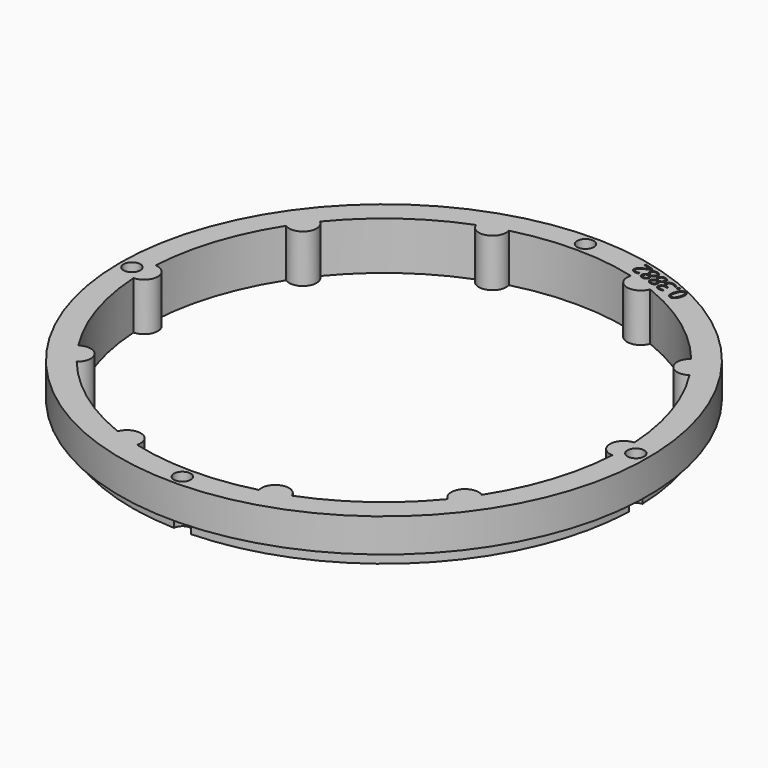
from build123d import *

# Parameters (mm, degrees)
SKETCH134_R             = 55
PAD050_DEPTH            = 10
POLARPATTERN015_COUNT   = 10
SKETCH135_R             = 55
SKETCH135_R_2           = 52.5
POCKET072_DEPTH         = 3
SKETCH136_R             = 1.75
POCKET073_DEPTH         = 321.770146
POCKET073_DEPTH_BACK    = 311.770146
POLARPATTERN016_COUNT   = 4
POCKET080_DEPTH         = 2
BODY008_ROLL_ANGLE      = 90
BODY008_PLACEMENT_ANGLE = -180


with BuildPart() as part:
    # Sketch134 → Pad050 (new body)
    with BuildSketch(Plane.XZ):
        Circle(SKETCH134_R)
        with BuildLine():
            ThreePointArc((49.915729, 2.901727), (-49.999981, -0.043968), (49.920755, -2.813934))
            ThreePointArc((49.915729, 2.901727), (47.140982, 0.041454), (49.920755, -2.813934))
        make_face(mode=Mode.SUBTRACT)
    pad050 = extrude(amount=PAD050_DEPTH)

    # PolarPattern015: Pad050 ×10 about axis
    polarpattern015_axis = Axis((0, 0, 0), (0, -1, 0))
    for i in range(1, POLARPATTERN015_COUNT):
        add(pad050.rotate(polarpattern015_axis, i * 360 / POLARPATTERN015_COUNT))

    # Sketch135 (on DatumPlane) → Pocket072 (cut)
    with BuildSketch(Plane.XZ.offset(10)):
        Circle(SKETCH135_R)
        Circle(SKETCH135_R_2, mode=Mode.SUBTRACT)
    extrude(amount=-POCKET072_DEPTH, mode=Mode.SUBTRACT)

    # Sketch136 (on DatumPlane) → Pocket073 (cut, two sides)
    with BuildSketch(Plane.XZ.offset(10)) as pocket073_sk:
        with Locations((52.5, 0)):
            Circle(SKETCH136_R)
    pocket073 = extrude(amount=-POCKET073_DEPTH, mode=Mode.SUBTRACT) + extrude(pocket073_sk.sketch, amount=POCKET073_DEPTH_BACK, mode=Mode.SUBTRACT)

    # PolarPattern016: Pocket073 ×4 about axis
    polarpattern016_axis = Axis((0, -10, 0), (0, -1, 0))
    for i in range(1, POLARPATTERN016_COUNT):
        add(pocket073.rotate(polarpattern016_axis, i * 360 / POLARPATTERN016_COUNT), mode=Mode.SUBTRACT)

    # Sketch149 (on Face2 of PolarPattern016) → Pocket080 (cut)
    with BuildSketch(Plane(origin=(0, 0, 0), x_dir=(1, 0, 0), z_dir=(0, 1, 0))):
        with BuildLine():
            add(Edge.make_bspline(
                [(-21.9569, -48.2452), (-22.0699, -48.593), (-22.2115, -48.8495)],
                knots=[0, 0, 0, 1, 1, 1], degree=2))
            add(Edge.make_bspline(
                [(-22.2115, -48.8495), (-22.3529, -49.1058), (-22.5276, -49.2587)],
                knots=[0, 0, 0, 1, 1, 1], degree=2))
            add(Edge.make_bspline(
                [(-22.5276, -49.2587), (-22.7023, -49.4115), (-22.9137, -49.4519)],
                knots=[0, 0, 0, 1, 1, 1], degree=2))
            add(Edge.make_bspline(
                [(-22.9137, -49.4519), (-23.1251, -49.4922), (-23.3766, -49.4105)],
                knots=[0, 0, 0, 1, 1, 1], degree=2))
            add(Edge.make_bspline(
                [(-23.3766, -49.4105), (-23.6944, -49.3073), (-23.8456, -49.0659)],
                knots=[0, 0, 0, 1, 1, 1], degree=2))
            add(Edge.make_bspline(
                [(-23.8456, -49.0659), (-23.9967, -48.8245), (-23.9921, -48.462)],
                knots=[0, 0, 0, 1, 1, 1], degree=2))
            add(Edge.make_bspline(
                [(-23.9921, -48.462), (-23.9874, -48.0996), (-23.8363, -47.6345)],
                knots=[0, 0, 0, 1, 1, 1], degree=2))
            add(Edge.make_bspline(
                [(-23.8363, -47.6345), (-23.6878, -47.1774), (-23.4883, -46.8782)],
                knots=[0, 0, 0, 1, 1, 1], degree=2))
            add(Edge.make_bspline(
                [(-23.4883, -46.8782), (-23.2886, -46.5791), (-23.0246, -46.4695)],
                knots=[0, 0, 0, 1, 1, 1], degree=2))
            add(Edge.make_bspline(
                [(-23.0246, -46.4695), (-22.7604, -46.3598), (-22.4212, -46.47)],
                knots=[0, 0, 0, 1, 1, 1], degree=2))
            add(Edge.make_bspline(
                [(-22.4212, -46.47), (-22.0995, -46.5745), (-21.9477, -46.8172)],
                knots=[0, 0, 0, 1, 1, 1], degree=2))
            add(Edge.make_bspline(
                [(-21.9477, -46.8172), (-21.7959, -47.0598), (-21.8015, -47.422)],
                knots=[0, 0, 0, 1, 1, 1], degree=2))
            add(Edge.make_bspline(
                [(-21.8015, -47.422), (-21.8071, -47.7842), (-21.9569, -48.2452)],
                knots=[0, 0, 0, 1, 1, 1], degree=2))
        make_face()
        with BuildLine():
            add(Edge.make_bspline(
                [(-23.5107, -47.7403), (-23.6403, -48.1392), (-23.6663, -48.4248)],
                knots=[0, 0, 0, 1, 1, 1], degree=2))
            add(Edge.make_bspline(
                [(-23.6663, -48.4248), (-23.6922, -48.7102), (-23.5997, -48.8861)],
                knots=[0, 0, 0, 1, 1, 1], degree=2))
            add(Edge.make_bspline(
                [(-23.5997, -48.8861), (-23.507, -49.0621), (-23.2867, -49.1337)],
                knots=[0, 0, 0, 1, 1, 1], degree=2))
            add(Edge.make_bspline(
                [(-23.2867, -49.1337), (-23.0664, -49.2052), (-22.8884, -49.1184)],
                knots=[0, 0, 0, 1, 1, 1], degree=2))
            add(Edge.make_bspline(
                [(-22.8884, -49.1184), (-22.7103, -49.0314), (-22.5626, -48.7855)],
                knots=[0, 0, 0, 1, 1, 1], degree=2))
            add(Edge.make_bspline(
                [(-22.5626, -48.7855), (-22.4147, -48.5396), (-22.2844, -48.1388)],
                knots=[0, 0, 0, 1, 1, 1], degree=2))
            add(Edge.make_bspline(
                [(-22.2844, -48.1388), (-22.1568, -47.7458), (-22.1312, -47.4615)],
                knots=[0, 0, 0, 1, 1, 1], degree=2))
            add(Edge.make_bspline(
                [(-22.1312, -47.4615), (-22.1056, -47.1769), (-22.1966, -46.9993)],
                knots=[0, 0, 0, 1, 1, 1], degree=2))
            add(Edge.make_bspline(
                [(-22.1966, -46.9993), (-22.2876, -46.8216), (-22.5118, -46.7488)],
                knots=[0, 0, 0, 1, 1, 1], degree=2))
            add(Edge.make_bspline(
                [(-22.5118, -46.7488), (-22.736, -46.6759), (-22.914, -46.7662)],
                knots=[0, 0, 0, 1, 1, 1], degree=2))
            add(Edge.make_bspline(
                [(-22.914, -46.7662), (-23.0921, -46.8564), (-23.2377, -47.1019)],
                knots=[0, 0, 0, 1, 1, 1], degree=2))
            add(Edge.make_bspline(
                [(-23.2377, -47.1019), (-23.3831, -47.3474), (-23.5107, -47.7403)],
                knots=[0, 0, 0, 1, 1, 1], degree=2))
        make_face(mode=Mode.SUBTRACT)
        with BuildLine():
            add(Edge.make_bspline(
                [(-21.8586, -49.6146), (-21.8142, -49.4782), (-21.7293, -49.4423)],
                knots=[0, 0, 0, 1, 1, 1], degree=2))
            add(Edge.make_bspline(
                [(-21.7293, -49.4423), (-21.6443, -49.4062), (-21.5487, -49.4373)],
                knots=[0, 0, 0, 1, 1, 1], degree=2))
            add(Edge.make_bspline(
                [(-21.5487, -49.4373), (-21.4493, -49.4696), (-21.3998, -49.5493)],
                knots=[0, 0, 0, 1, 1, 1], degree=2))
            add(Edge.make_bspline(
                [(-21.3998, -49.5493), (-21.3502, -49.6289), (-21.3946, -49.7654)],
                knots=[0, 0, 0, 1, 1, 1], degree=2))
            add(Edge.make_bspline(
                [(-21.3946, -49.7654), (-21.4383, -49.8999), (-21.5265, -49.9392)],
                knots=[0, 0, 0, 1, 1, 1], degree=2))
            add(Edge.make_bspline(
                [(-21.5265, -49.9392), (-21.6147, -49.9784), (-21.7141, -49.9461)],
                knots=[0, 0, 0, 1, 1, 1], degree=2))
            add(Edge.make_bspline(
                [(-21.7141, -49.9461), (-21.8096, -49.9151), (-21.856, -49.8322)],
                knots=[0, 0, 0, 1, 1, 1], degree=2))
            add(Edge.make_bspline(
                [(-21.856, -49.8322), (-21.9023, -49.7492), (-21.8586, -49.6146)],
                knots=[0, 0, 0, 1, 1, 1], degree=2))
        make_face()
        with BuildLine():
            add(Edge.make_bspline(
                [(-18.5038, -48.5277), (-18.5662, -48.7199), (-18.6862, -48.837)],
                knots=[0, 0, 0, 1, 1, 1], degree=2))
            add(Edge.make_bspline(
                [(-18.6862, -48.837), (-18.8061, -48.9541), (-18.9677, -49.0003)],
                knots=[0, 0, 0, 1, 1, 1], degree=2))
            add(Edge.make_bspline(
                [(-18.9677, -49.0003), (-19.1292, -49.0464), (-19.320094, -49.02347)],
                knots=[0, 0, 0, 1, 1, 1], degree=2))
            Line((-19.320094, -49.02347), (-19.3252, -49.0391))
            add(Edge.make_bspline(
                [(-19.3252, -49.0391), (-18.9999, -49.1922), (-18.8864, -49.4233)],
                knots=[0, 0, 0, 1, 1, 1], degree=2))
            add(Edge.make_bspline(
                [(-18.8864, -49.4233), (-18.7729, -49.6545), (-18.8655, -49.9395)],
                knots=[0, 0, 0, 1, 1, 1], degree=2))
            add(Edge.make_bspline(
                [(-18.8655, -49.9395), (-18.9461, -50.1875), (-19.1243, -50.3411)],
                knots=[0, 0, 0, 1, 1, 1], degree=2))
            add(Edge.make_bspline(
                [(-19.1243, -50.3411), (-19.3024, -50.4948), (-19.5765, -50.5255)],
                knots=[0, 0, 0, 1, 1, 1], degree=2))
            add(Edge.make_bspline(
                [(-19.5765, -50.5255), (-19.8504, -50.5562), (-20.2228, -50.4352)],
                knots=[0, 0, 0, 1, 1, 1], degree=2))
            add(Edge.make_bspline(
                [(-20.2228, -50.4352), (-20.449, -50.3618), (-20.6293, -50.2632)],
                knots=[0, 0, 0, 1, 1, 1], degree=2))
            add(Edge.make_bspline(
                [(-20.6293, -50.2632), (-20.8096, -50.1648), (-20.957832, -50.023984)],
                knots=[0, 0, 0, 1, 1, 1], degree=2))
            Line((-20.957832, -50.023984), (-20.859, -49.7198))
            add(Edge.make_bspline(
                [(-20.859, -49.7198), (-20.7101, -49.8652), (-20.5177, -49.9828)],
                knots=[0, 0, 0, 1, 1, 1], degree=2))
            add(Edge.make_bspline(
                [(-20.5177, -49.9828), (-20.3252, -50.1002), (-20.1302, -50.1636)],
                knots=[0, 0, 0, 1, 1, 1], degree=2))
            add(Edge.make_bspline(
                [(-20.1302, -50.1636), (-19.7403, -50.2903), (-19.5163, -50.1913)],
                knots=[0, 0, 0, 1, 1, 1], degree=2))
            add(Edge.make_bspline(
                [(-19.5163, -50.1913), (-19.2924, -50.0924), (-19.2048, -49.8229)],
                knots=[0, 0, 0, 1, 1, 1], degree=2))
            add(Edge.make_bspline(
                [(-19.2048, -49.8229), (-19.1445, -49.6373), (-19.204, -49.4917)],
                knots=[0, 0, 0, 1, 1, 1], degree=2))
            add(Edge.make_bspline(
                [(-19.204, -49.4917), (-19.2633, -49.3461), (-19.4262, -49.2338)],
                knots=[0, 0, 0, 1, 1, 1], degree=2))
            add(Edge.make_bspline(
                [(-19.4262, -49.2338), (-19.589, -49.1215), (-19.842475, -49.039104)],
                knots=[0, 0, 0, 1, 1, 1], degree=2))
            Line((-19.842475, -49.039104), (-20.127116, -48.946618))
            Line((-20.127116, -48.946618), (-20.037165, -48.669776))
            Line((-20.037165, -48.669776), (-19.7506, -48.7629))
            add(Edge.make_bspline(
                [(-19.7506, -48.7629), (-19.5186, -48.8383), (-19.3344, -48.8221)],
                knots=[0, 0, 0, 1, 1, 1], degree=2))
            add(Edge.make_bspline(
                [(-19.3344, -48.8221), (-19.1502, -48.8058), (-19.0249, -48.7086)],
                knots=[0, 0, 0, 1, 1, 1], degree=2))
            add(Edge.make_bspline(
                [(-19.0249, -48.7086), (-18.8995, -48.6114), (-18.8439, -48.4403)],
                knots=[0, 0, 0, 1, 1, 1], degree=2))
            add(Edge.make_bspline(
                [(-18.8439, -48.4403), (-18.7731, -48.2222), (-18.8787, -48.0564)],
                knots=[0, 0, 0, 1, 1, 1], degree=2))
            add(Edge.make_bspline(
                [(-18.8787, -48.0564), (-18.9843, -47.8906), (-19.2319, -47.8102)],
                knots=[0, 0, 0, 1, 1, 1], degree=2))
            add(Edge.make_bspline(
                [(-19.2319, -47.8102), (-19.384, -47.7608), (-19.5189, -47.7514)],
                knots=[0, 0, 0, 1, 1, 1], degree=2))
            add(Edge.make_bspline(
                [(-19.5189, -47.7514), (-19.6538, -47.7421), (-19.7807, -47.7612)],
                knots=[0, 0, 0, 1, 1, 1], degree=2))
            add(Edge.make_bspline(
                [(-19.7807, -47.7612), (-19.9077, -47.7803), (-20.040268, -47.816945)],
                knots=[0, 0, 0, 1, 1, 1], degree=2))
            Line((-20.040268, -47.816945), (-20.1318, -47.5415))
            add(Edge.make_bspline(
                [(-20.1318, -47.5415), (-19.9366, -47.4713), (-19.6839, -47.4564)],
                knots=[0, 0, 0, 1, 1, 1], degree=2))
            add(Edge.make_bspline(
                [(-19.6839, -47.4564), (-19.4312, -47.4415), (-19.1465, -47.534)],
                knots=[0, 0, 0, 1, 1, 1], degree=2))
            add(Edge.make_bspline(
                [(-19.1465, -47.534), (-18.7098, -47.6759), (-18.5564, -47.9469)],
                knots=[0, 0, 0, 1, 1, 1], degree=2))
            add(Edge.make_bspline(
                [(-18.5564, -47.9469), (-18.4031, -48.2178), (-18.5038, -48.5277)],
                knots=[0, 0, 0, 1, 1, 1], degree=2))
        make_face()
        with BuildLine():
            add(Edge.make_bspline(
                [(-16.8147, -48.2917), (-16.5671, -48.3721), (-16.4014, -48.5124)],
                knots=[0, 0, 0, 1, 1, 1], degree=2))
            add(Edge.make_bspline(
                [(-16.4014, -48.5124), (-16.2358, -48.6528), (-16.1769, -48.8396)],
                knots=[0, 0, 0, 1, 1, 1], degree=2))
            add(Edge.make_bspline(
                [(-16.1769, -48.8396), (-16.1179, -49.0263), (-16.1897, -49.2474)],
                knots=[0, 0, 0, 1, 1, 1], degree=2))
            add(Edge.make_bspline(
                [(-16.1897, -49.2474), (-16.2463, -49.4215), (-16.3637, -49.5272)],
                knots=[0, 0, 0, 1, 1, 1], degree=2))
            add(Edge.make_bspline(
                [(-16.3637, -49.5272), (-16.481, -49.633), (-16.6392, -49.6886)],
                knots=[0, 0, 0, 1, 1, 1], degree=2))
            add(Edge.make_bspline(
                [(-16.6392, -49.6886), (-16.7974, -49.7443), (-16.9762, -49.7705)],
                knots=[0, 0, 0, 1, 1, 1], degree=2))
            add(Edge.make_bspline(
                [(-16.9762, -49.7705), (-16.8202, -49.9142), (-16.7074, -50.0677)],
                knots=[0, 0, 0, 1, 1, 1], degree=2))
            add(Edge.make_bspline(
                [(-16.7074, -50.0677), (-16.5945, -50.2212), (-16.5552, -50.3919)],
                knots=[0, 0, 0, 1, 1, 1], degree=2))
            add(Edge.make_bspline(
                [(-16.5552, -50.3919), (-16.5158, -50.5626), (-16.5793, -50.7582)],
                knots=[0, 0, 0, 1, 1, 1], degree=2))
            add(Edge.make_bspline(
                [(-16.5793, -50.7582), (-16.6575, -50.9988), (-16.8305, -51.1363)],
                knots=[0, 0, 0, 1, 1, 1], degree=2))
            add(Edge.make_bspline(
                [(-16.8305, -51.1363), (-17.0033, -51.2737), (-17.2425, -51.2999)],
                knots=[0, 0, 0, 1, 1, 1], degree=2))
            add(Edge.make_bspline(
                [(-17.2425, -51.2999), (-17.4816, -51.3259), (-17.7623, -51.2347)],
                knots=[0, 0, 0, 1, 1, 1], degree=2))
            add(Edge.make_bspline(
                [(-17.7623, -51.2347), (-18.0645, -51.1365), (-18.2465, -50.9768)],
                knots=[0, 0, 0, 1, 1, 1], degree=2))
            add(Edge.make_bspline(
                [(-18.2465, -50.9768), (-18.4284, -50.8171), (-18.483, -50.6101)],
                knots=[0, 0, 0, 1, 1, 1], degree=2))
            add(Edge.make_bspline(
                [(-18.483, -50.6101), (-18.5375, -50.4032), (-18.4593, -50.1626)],
                knots=[0, 0, 0, 1, 1, 1], degree=2))
            add(Edge.make_bspline(
                [(-18.4593, -50.1626), (-18.3951, -49.9649), (-18.2639, -49.8464)],
                knots=[0, 0, 0, 1, 1, 1], degree=2))
            add(Edge.make_bspline(
                [(-18.2639, -49.8464), (-18.1327, -49.728), (-17.96, -49.6673)],
                knots=[0, 0, 0, 1, 1, 1], degree=2))
            add(Edge.make_bspline(
                [(-17.96, -49.6673), (-17.7872, -49.6066), (-17.5999, -49.5874)],
                knots=[0, 0, 0, 1, 1, 1], degree=2))
            add(Edge.make_bspline(
                [(-17.5999, -49.5874), (-17.7168, -49.4629), (-17.8024, -49.3248)],
                knots=[0, 0, 0, 1, 1, 1], degree=2))
            add(Edge.make_bspline(
                [(-17.8024, -49.3248), (-17.8879, -49.1866), (-17.9136, -49.0301)],
                knots=[0, 0, 0, 1, 1, 1], degree=2))
            add(Edge.make_bspline(
                [(-17.9136, -49.0301), (-17.9392, -48.8737), (-17.8814, -48.6956)],
                knots=[0, 0, 0, 1, 1, 1], degree=2))
            add(Edge.make_bspline(
                [(-17.8814, -48.6956), (-17.8108, -48.4785), (-17.6515, -48.3626)],
                knots=[0, 0, 0, 1, 1, 1], degree=2))
            add(Edge.make_bspline(
                [(-17.6515, -48.3626), (-17.492, -48.2468), (-17.2743, -48.23)],
                knots=[0, 0, 0, 1, 1, 1], degree=2))
            add(Edge.make_bspline(
                [(-17.2743, -48.23), (-17.0564, -48.2131), (-16.8147, -48.2917)],
                knots=[0, 0, 0, 1, 1, 1], degree=2))
        make_face()
        with BuildLine():
            add(Edge.make_bspline(
                [(-18.1423, -50.2682), (-18.2136, -50.4876), (-18.1057, -50.6796)],
                knots=[0, 0, 0, 1, 1, 1], degree=2))
            add(Edge.make_bspline(
                [(-18.1057, -50.6796), (-17.9978, -50.8715), (-17.6858, -50.9729)],
                knots=[0, 0, 0, 1, 1, 1], degree=2))
            add(Edge.make_bspline(
                [(-17.6858, -50.9729), (-17.3895, -51.0692), (-17.1816, -50.9798)],
                knots=[0, 0, 0, 1, 1, 1], degree=2))
            add(Edge.make_bspline(
                [(-17.1816, -50.9798), (-16.9736, -50.8905), (-16.8986, -50.6594)],
                knots=[0, 0, 0, 1, 1, 1], degree=2))
            add(Edge.make_bspline(
                [(-16.8986, -50.6594), (-16.8521, -50.5164), (-16.8909, -50.3837)],
                knots=[0, 0, 0, 1, 1, 1], degree=2))
            add(Edge.make_bspline(
                [(-16.8909, -50.3837), (-16.9297, -50.2509), (-17.0381, -50.1204)],
                knots=[0, 0, 0, 1, 1, 1], degree=2))
            add(Edge.make_bspline(
                [(-17.0381, -50.1204), (-17.1466, -49.9899), (-17.308932, -49.859284)],
                knots=[0, 0, 0, 1, 1, 1], degree=2))
            Line((-17.308932, -49.859284), (-17.3708, -49.811))
            add(Edge.make_bspline(
                [(-17.3708, -49.811), (-17.5744, -49.8271), (-17.7298, -49.8773)],
                knots=[0, 0, 0, 1, 1, 1], degree=2))
            add(Edge.make_bspline(
                [(-17.7298, -49.8773), (-17.8851, -49.9276), (-17.9889, -50.0216)],
                knots=[0, 0, 0, 1, 1, 1], degree=2))
            add(Edge.make_bspline(
                [(-17.9889, -50.0216), (-18.0927, -50.1155), (-18.1423, -50.2682)],
                knots=[0, 0, 0, 1, 1, 1], degree=2))
        make_face(mode=Mode.SUBTRACT)
        with BuildLine():
            add(Edge.make_bspline(
                [(-16.9047, -48.5555), (-17.1348, -48.4808), (-17.317, -48.544)],
                knots=[0, 0, 0, 1, 1, 1], degree=2))
            add(Edge.make_bspline(
                [(-17.317, -48.544), (-17.4991, -48.6071), (-17.5666, -48.8147)],
                knots=[0, 0, 0, 1, 1, 1], degree=2))
            add(Edge.make_bspline(
                [(-17.5666, -48.8147), (-17.6149, -48.9635), (-17.5772, -49.0894)],
                knots=[0, 0, 0, 1, 1, 1], degree=2))
            add(Edge.make_bspline(
                [(-17.5772, -49.0894), (-17.5394, -49.2154), (-17.4405, -49.3287)],
                knots=[0, 0, 0, 1, 1, 1], degree=2))
            add(Edge.make_bspline(
                [(-17.4405, -49.3287), (-17.3415, -49.4421), (-17.2098, -49.5541)],
                knots=[0, 0, 0, 1, 1, 1], degree=2))
            add(Edge.make_bspline(
                [(-17.2098, -49.5541), (-17.0412, -49.5396), (-16.9017, -49.5016)],
                knots=[0, 0, 0, 1, 1, 1], degree=2))
            add(Edge.make_bspline(
                [(-16.9017, -49.5016), (-16.7622, -49.4636), (-16.6622, -49.3814)],
                knots=[0, 0, 0, 1, 1, 1], degree=2))
            add(Edge.make_bspline(
                [(-16.6622, -49.3814), (-16.5622, -49.2991), (-16.5151, -49.1542)],
                knots=[0, 0, 0, 1, 1, 1], degree=2))
            add(Edge.make_bspline(
                [(-16.5151, -49.1542), (-16.4477, -48.9466), (-16.5573, -48.7897)],
                knots=[0, 0, 0, 1, 1, 1], degree=2))
            add(Edge.make_bspline(
                [(-16.5573, -48.7897), (-16.6669, -48.6328), (-16.9047, -48.5555)],
                knots=[0, 0, 0, 1, 1, 1], degree=2))
        make_face(mode=Mode.SUBTRACT)
        with BuildLine():
            add(Edge.make_bspline(
                [(-14.5355, -49.0322), (-14.2879, -49.1127), (-14.1222, -49.253)],
                knots=[0, 0, 0, 1, 1, 1], degree=2))
            add(Edge.make_bspline(
                [(-14.1222, -49.253), (-13.9566, -49.3933), (-13.8977, -49.5801)],
                knots=[0, 0, 0, 1, 1, 1], degree=2))
            add(Edge.make_bspline(
                [(-13.8977, -49.5801), (-13.8387, -49.7669), (-13.9105, -49.9879)],
                knots=[0, 0, 0, 1, 1, 1], degree=2))
            add(Edge.make_bspline(
                [(-13.9105, -49.9879), (-13.9671, -50.1621), (-14.0845, -50.2678)],
                knots=[0, 0, 0, 1, 1, 1], degree=2))
            add(Edge.make_bspline(
                [(-14.0845, -50.2678), (-14.2018, -50.3735), (-14.36, -50.4292)],
                knots=[0, 0, 0, 1, 1, 1], degree=2))
            add(Edge.make_bspline(
                [(-14.36, -50.4292), (-14.5182, -50.4848), (-14.697, -50.5111)],
                knots=[0, 0, 0, 1, 1, 1], degree=2))
            add(Edge.make_bspline(
                [(-14.697, -50.5111), (-14.541, -50.6547), (-14.4282, -50.8082)],
                knots=[0, 0, 0, 1, 1, 1], degree=2))
            add(Edge.make_bspline(
                [(-14.4282, -50.8082), (-14.3153, -50.9617), (-14.2759, -51.1324)],
                knots=[0, 0, 0, 1, 1, 1], degree=2))
            add(Edge.make_bspline(
                [(-14.2759, -51.1324), (-14.2366, -51.3032), (-14.3001, -51.4988)],
                knots=[0, 0, 0, 1, 1, 1], degree=2))
            add(Edge.make_bspline(
                [(-14.3001, -51.4988), (-14.3783, -51.7393), (-14.5513, -51.8768)],
                knots=[0, 0, 0, 1, 1, 1], degree=2))
            add(Edge.make_bspline(
                [(-14.5513, -51.8768), (-14.7241, -52.0142), (-14.9633, -52.0404)],
                knots=[0, 0, 0, 1, 1, 1], degree=2))
            add(Edge.make_bspline(
                [(-14.9633, -52.0404), (-15.2024, -52.0665), (-15.4831, -51.9753)],
                knots=[0, 0, 0, 1, 1, 1], degree=2))
            add(Edge.make_bspline(
                [(-15.4831, -51.9753), (-15.7853, -51.8771), (-15.9673, -51.7173)],
                knots=[0, 0, 0, 1, 1, 1], degree=2))
            add(Edge.make_bspline(
                [(-15.9673, -51.7173), (-16.1492, -51.5577), (-16.2038, -51.3507)],
                knots=[0, 0, 0, 1, 1, 1], degree=2))
            add(Edge.make_bspline(
                [(-16.2038, -51.3507), (-16.2583, -51.1437), (-16.1801, -50.9031)],
                knots=[0, 0, 0, 1, 1, 1], degree=2))
            add(Edge.make_bspline(
                [(-16.1801, -50.9031), (-16.1159, -50.7055), (-15.9847, -50.587)],
                knots=[0, 0, 0, 1, 1, 1], degree=2))
            add(Edge.make_bspline(
                [(-15.9847, -50.587), (-15.8535, -50.4685), (-15.6808, -50.4078)],
                knots=[0, 0, 0, 1, 1, 1], degree=2))
            add(Edge.make_bspline(
                [(-15.6808, -50.4078), (-15.508, -50.3472), (-15.3207, -50.328)],
                knots=[0, 0, 0, 1, 1, 1], degree=2))
            add(Edge.make_bspline(
                [(-15.3207, -50.328), (-15.4376, -50.2035), (-15.5232, -50.0653)],
                knots=[0, 0, 0, 1, 1, 1], degree=2))
            add(Edge.make_bspline(
                [(-15.5232, -50.0653), (-15.6087, -49.9272), (-15.6344, -49.7707)],
                knots=[0, 0, 0, 1, 1, 1], degree=2))
            add(Edge.make_bspline(
                [(-15.6344, -49.7707), (-15.66, -49.6142), (-15.6022, -49.4362)],
                knots=[0, 0, 0, 1, 1, 1], degree=2))
            add(Edge.make_bspline(
                [(-15.6022, -49.4362), (-15.5316, -49.2191), (-15.3723, -49.1032)],
                knots=[0, 0, 0, 1, 1, 1], degree=2))
            add(Edge.make_bspline(
                [(-15.3723, -49.1032), (-15.2128, -48.9873), (-14.9951, -48.9705)],
                knots=[0, 0, 0, 1, 1, 1], degree=2))
            add(Edge.make_bspline(
                [(-14.9951, -48.9705), (-14.7772, -48.9537), (-14.5355, -49.0322)],
                knots=[0, 0, 0, 1, 1, 1], degree=2))
        make_face()
        with BuildLine():
            add(Edge.make_bspline(
                [(-15.8631, -51.0087), (-15.9344, -51.2281), (-15.8265, -51.4201)],
                knots=[0, 0, 0, 1, 1, 1], degree=2))
            add(Edge.make_bspline(
                [(-15.8265, -51.4201), (-15.7186, -51.6121), (-15.4066, -51.7134)],
                knots=[0, 0, 0, 1, 1, 1], degree=2))
            add(Edge.make_bspline(
                [(-15.4066, -51.7134), (-15.1103, -51.8097), (-14.9024, -51.7204)],
                knots=[0, 0, 0, 1, 1, 1], degree=2))
            add(Edge.make_bspline(
                [(-14.9024, -51.7204), (-14.6944, -51.631), (-14.6194, -51.3999)],
                knots=[0, 0, 0, 1, 1, 1], degree=2))
            add(Edge.make_bspline(
                [(-14.6194, -51.3999), (-14.5729, -51.257), (-14.6117, -51.1242)],
                knots=[0, 0, 0, 1, 1, 1], degree=2))
            add(Edge.make_bspline(
                [(-14.6117, -51.1242), (-14.6505, -50.9915), (-14.7589, -50.861)],
                knots=[0, 0, 0, 1, 1, 1], degree=2))
            add(Edge.make_bspline(
                [(-14.7589, -50.861), (-14.8674, -50.7305), (-15.029724, -50.599844)],
                knots=[0, 0, 0, 1, 1, 1], degree=2))
            Line((-15.029724, -50.599844), (-15.0916, -50.5516))
            add(Edge.make_bspline(
                [(-15.0916, -50.5516), (-15.2952, -50.5676), (-15.4506, -50.6179)],
                knots=[0, 0, 0, 1, 1, 1], degree=2))
            add(Edge.make_bspline(
                [(-15.4506, -50.6179), (-15.6059, -50.6681), (-15.7097, -50.7621)],
                knots=[0, 0, 0, 1, 1, 1], degree=2))
            add(Edge.make_bspline(
                [(-15.7097, -50.7621), (-15.8135, -50.856), (-15.8631, -51.0087)],
                knots=[0, 0, 0, 1, 1, 1], degree=2))
        make_face(mode=Mode.SUBTRACT)
        with BuildLine():
            add(Edge.make_bspline(
                [(-14.6255, -49.2961), (-14.8556, -49.2214), (-15.0378, -49.2846)],
                knots=[0, 0, 0, 1, 1, 1], degree=2))
            add(Edge.make_bspline(
                [(-15.0378, -49.2846), (-15.2199, -49.3477), (-15.2874, -49.5552)],
                knots=[0, 0, 0, 1, 1, 1], degree=2))
            add(Edge.make_bspline(
                [(-15.2874, -49.5552), (-15.3357, -49.7041), (-15.298, -49.83)],
                knots=[0, 0, 0, 1, 1, 1], degree=2))
            add(Edge.make_bspline(
                [(-15.298, -49.83), (-15.2602, -49.9559), (-15.1612, -50.0693)],
                knots=[0, 0, 0, 1, 1, 1], degree=2))
            add(Edge.make_bspline(
                [(-15.1612, -50.0693), (-15.0623, -50.1826), (-14.9306, -50.2947)],
                knots=[0, 0, 0, 1, 1, 1], degree=2))
            add(Edge.make_bspline(
                [(-14.9306, -50.2947), (-14.762, -50.2802), (-14.6225, -50.2422)],
                knots=[0, 0, 0, 1, 1, 1], degree=2))
            add(Edge.make_bspline(
                [(-14.6225, -50.2422), (-14.483, -50.2041), (-14.383, -50.122)],
                knots=[0, 0, 0, 1, 1, 1], degree=2))
            add(Edge.make_bspline(
                [(-14.383, -50.122), (-14.283, -50.0397), (-14.2359, -49.8947)],
                knots=[0, 0, 0, 1, 1, 1], degree=2))
            add(Edge.make_bspline(
                [(-14.2359, -49.8947), (-14.1685, -49.6872), (-14.2781, -49.5303)],
                knots=[0, 0, 0, 1, 1, 1], degree=2))
            add(Edge.make_bspline(
                [(-14.2781, -49.5303), (-14.3877, -49.3734), (-14.6255, -49.2961)],
                knots=[0, 0, 0, 1, 1, 1], degree=2))
        make_face(mode=Mode.SUBTRACT)
        with BuildLine():
            Line((-12.271435, -52.970518), (-14.139149, -52.363661))
            Line((-14.139149, -52.363661), (-14.051097, -52.092667))
            Line((-14.051097, -52.092667), (-13.0367, -51.5645))
            add(Edge.make_bspline(
                [(-13.0367, -51.5645), (-12.7544, -51.4186), (-12.5546, -51.2977)],
                knots=[0, 0, 0, 1, 1, 1], degree=2))
            add(Edge.make_bspline(
                [(-12.5546, -51.2977), (-12.3547, -51.1769), (-12.2256, -51.0385)],
                knots=[0, 0, 0, 1, 1, 1], degree=2))
            add(Edge.make_bspline(
                [(-12.2256, -51.0385), (-12.0966, -50.8999), (-12.033, -50.7045)],
                knots=[0, 0, 0, 1, 1, 1], degree=2))
            add(Edge.make_bspline(
                [(-12.033, -50.7045), (-11.9543, -50.4622), (-12.0561, -50.2876)],
                knots=[0, 0, 0, 1, 1, 1], degree=2))
            add(Edge.make_bspline(
                [(-12.0561, -50.2876), (-12.1577, -50.113), (-12.3917, -50.037)],
                knots=[0, 0, 0, 1, 1, 1], degree=2))
            add(Edge.make_bspline(
                [(-12.3917, -50.037), (-12.5964, -49.9705), (-12.7771, -49.9894)],
                knots=[0, 0, 0, 1, 1, 1], degree=2))
            add(Edge.make_bspline(
                [(-12.7771, -49.9894), (-12.9578, -50.0082), (-13.165354, -50.083071)],
                knots=[0, 0, 0, 1, 1, 1], degree=2))
            Line((-13.165354, -50.083071), (-13.2679, -49.8083))
            add(Edge.make_bspline(
                [(-13.2679, -49.8083), (-13.1238, -49.7495), (-12.9663, -49.7188)],
                knots=[0, 0, 0, 1, 1, 1], degree=2))
            add(Edge.make_bspline(
                [(-12.9663, -49.7188), (-12.8086, -49.6882), (-12.6417, -49.695)],
                knots=[0, 0, 0, 1, 1, 1], degree=2))
            add(Edge.make_bspline(
                [(-12.6417, -49.695), (-12.4746, -49.7018), (-12.3011, -49.7582)],
                knots=[0, 0, 0, 1, 1, 1], degree=2))
            add(Edge.make_bspline(
                [(-12.3011, -49.7582), (-12.0379, -49.8437), (-11.8767, -49.9977)],
                knots=[0, 0, 0, 1, 1, 1], degree=2))
            add(Edge.make_bspline(
                [(-11.8767, -49.9977), (-11.7154, -50.1515), (-11.6664, -50.3554)],
                knots=[0, 0, 0, 1, 1, 1], degree=2))
            add(Edge.make_bspline(
                [(-11.6664, -50.3554), (-11.6173, -50.5593), (-11.6935, -50.7938)],
                knots=[0, 0, 0, 1, 1, 1], degree=2))
            add(Edge.make_bspline(
                [(-11.6935, -50.7938), (-11.7671, -51.0203), (-11.92, -51.1856)],
                knots=[0, 0, 0, 1, 1, 1], degree=2))
            add(Edge.make_bspline(
                [(-11.92, -51.1856), (-12.0728, -51.3509), (-12.2966, -51.4889)],
                knots=[0, 0, 0, 1, 1, 1], degree=2))
            add(Edge.make_bspline(
                [(-12.2966, -51.4889), (-12.5202, -51.6267), (-12.805862, -51.769455)],
                knots=[0, 0, 0, 1, 1, 1], degree=2))
            Line((-12.805862, -51.769455), (-13.627063, -52.187336))
            Line((-13.627063, -52.187336), (-13.631497, -52.200983))
            Line((-13.631497, -52.200983), (-12.175149, -52.674179))
            Line((-12.175149, -52.674179), (-12.271435, -52.970518))
        make_face()
    extrude(amount=-POCKET080_DEPTH, mode=Mode.SUBTRACT)


with BuildPart() as part_1:
    # Body008 roll: moved
    add(part.part.rotate(Axis((0, 0, 0), (1, 0, 0)), BODY008_ROLL_ANGLE))


with BuildPart() as part_2:
    # Body008 placement: moved
    add(part_1.part.moved(Location((-1.52, 0, 112))).rotate(Axis((-1.52, 0, 112), (0, 0, 1)), BODY008_PLACEMENT_ANGLE))


solid = part_2.part
